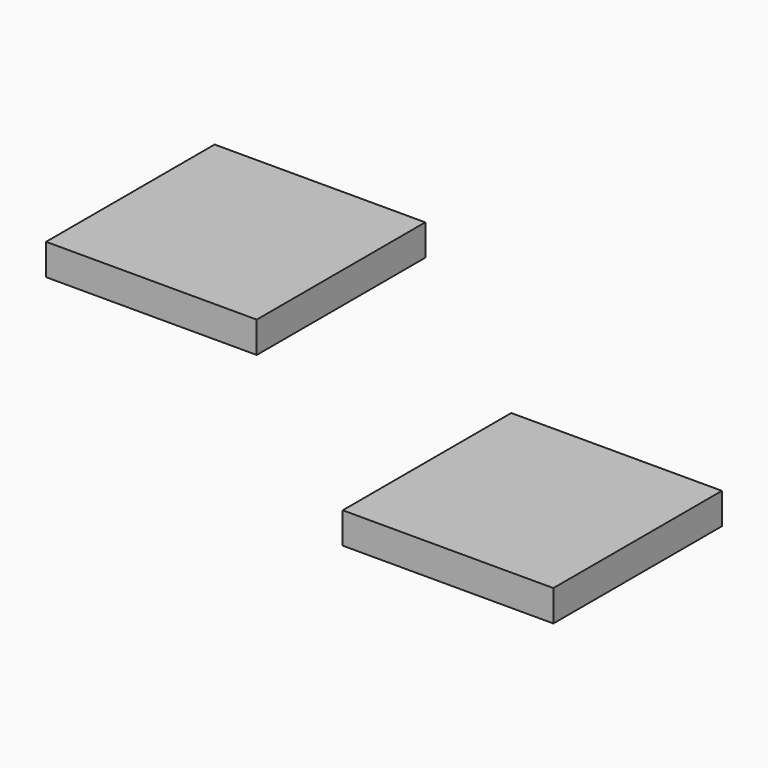
from build123d import *

# Parameters (mm, degrees)
F0_W     = 8.583123
F0_H     = 8.583123
F0_W_2   = 8.583122
F0_H_2   = 8.583122
F1_DEPTH = 1.27


with BuildPart() as f1:
    # F0 (on Top) → F1 (new body)
    with BuildSketch(Plane.XY):
        with Locations((-18.926543, 8.549849)):
            Rectangle(F0_W, F0_H)
        Rectangle(F0_W_2, F0_H_2)
    extrude(amount=F1_DEPTH)


solid = f1.part
